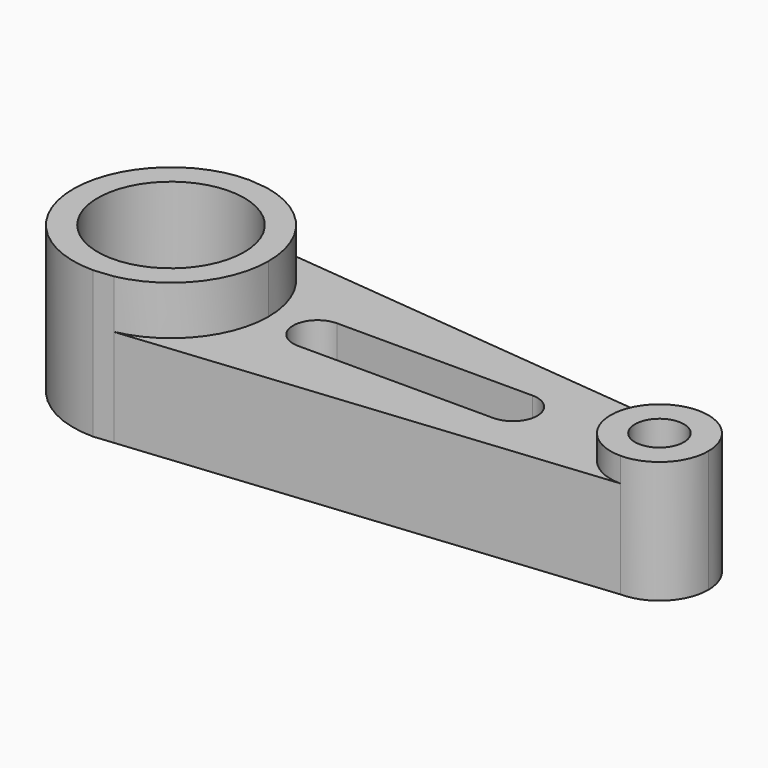
from build123d import *

# Parameters (mm, degrees)
F0_R     = 19.05
F1_DEPTH = 38.1
F2_DEPTH = 25.4
F0_R_2   = 6.35
F3_DEPTH = 31.75


with BuildPart() as f1:
    # F0 (on Top) → F1 (new body)
    with BuildSketch(Plane.XY):
        with BuildLine():
            Line((-58.470297, 24.89703), (-63.5, 25.4))
            ThreePointArc((-63.5, 25.4), (-88.9, 0), (-63.5, -25.4))
            Line((-63.5, -25.4), (-58.470297, -24.89703))
            ThreePointArc((-58.470297, -24.89703), (-43.841485, -16.08424), (-38.1, 0))
            ThreePointArc((-38.1, 0), (-43.841485, 16.08424), (-58.470297, 24.89703))
        make_face()
        with Locations((-63.5, 0)):
            Circle(F0_R, mode=Mode.SUBTRACT)
    extrude(amount=F1_DEPTH)

    # F0 (on Top) → F2 (join)
    with BuildSketch(Plane.XY):
        with BuildLine():
            Line((63.5, 12.7), (-58.470297, 24.89703))
            ThreePointArc((-58.470297, 24.89703), (-43.841485, 16.08424), (-38.1, 0))
            ThreePointArc((-38.1, 0), (-43.841485, -16.08424), (-58.470297, -24.89703))
            Line((-58.470297, -24.89703), (63.5, -12.7))
            ThreePointArc((63.5, -12.7), (50.8, 0), (63.5, 12.7))
        make_face()
        with BuildLine():
            ThreePointArc((-25.4, -6.35), (-31.75, 0), (-25.4, 6.35))
            Line((-25.4, 6.35), (25.4, 6.35))
            ThreePointArc((25.4, 6.35), (31.75, 0), (25.4, -6.35))
            Line((25.4, -6.35), (-25.4, -6.35))
        make_face(mode=Mode.SUBTRACT)
    extrude(amount=F2_DEPTH)

    # F0 (on Top) → F3 (join)
    with BuildSketch(Plane.XY):
        with BuildLine():
            ThreePointArc((76.2, 0), (72.480256, 8.980256), (63.5, 12.7))
            ThreePointArc((63.5, 12.7), (50.8, 0), (63.5, -12.7))
            ThreePointArc((63.5, -12.7), (72.480256, -8.980256), (76.2, 0))
        make_face()
        with Locations((63.5, 0)):
            Circle(F0_R_2, mode=Mode.SUBTRACT)
    extrude(amount=F3_DEPTH)


solid = f1.part
